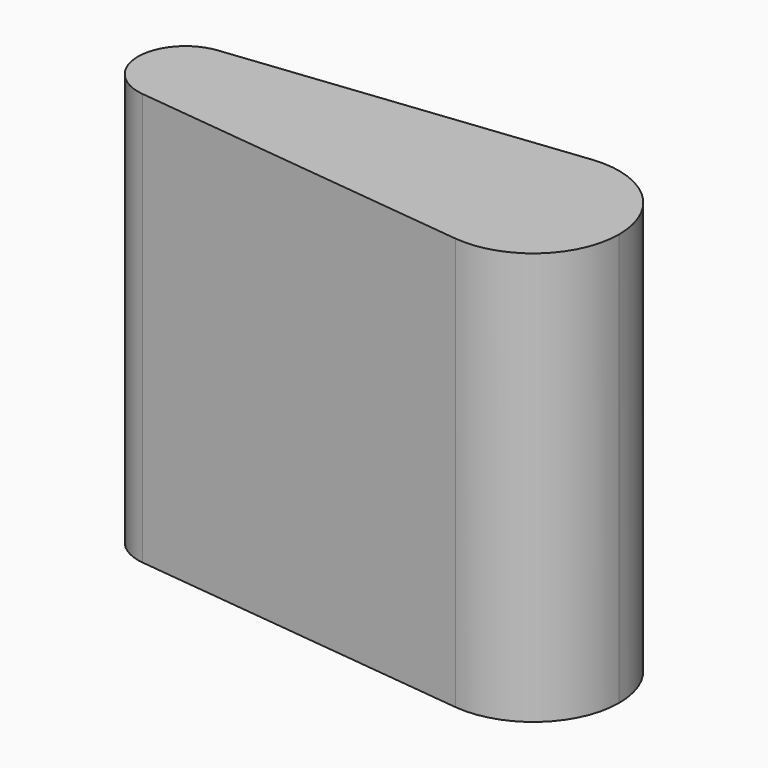
from build123d import *

# Parameters (mm, degrees)
F2_DEPTH = 87


with BuildPart() as f2:
    # F0 (on Top) → F2 (new body)
    with BuildSketch(Plane.XY):
        with BuildLine():
            ThreePointArc((-42.9789998064, 11.2830127345), (-35.2030736039, 13.768857142), (-31.8708510677, 21.2214233908))
            ThreePointArc((-31.8708510677, 21.2214233908), (-35.2030736039, 28.6739896397), (-42.9789998064, 31.1598340471))
            ThreePointArc((-42.9789998064, 31.1598340471), (-51.8708510677, 21.2214233908), (-42.9789998064, 11.2830127345))
        make_face()
        with BuildLine():
            ThreePointArc((-42.9789998064, 31.1598340471), (-35.2030736039, 28.6739896397), (-31.8708510677, 21.2214233908))
            ThreePointArc((-31.8708510677, 21.2214233908), (-35.2030736039, 13.768857142), (-42.9789998064, 11.2830127345))
            Line((-42.9789998064, 11.2830127345), (29.4798568705, 3.2037339233))
            ThreePointArc((29.4798568705, 3.2037339233), (13.3595112379, 21.2214233908), (29.4798568705, 39.2391128583))
            Line((29.4798568705, 39.2391128583), (-42.9789998064, 31.1598340471))
        make_face()
        with BuildLine():
            ThreePointArc((49.6182050888, 21.2214233908), (43.5771032496, 34.7324392918), (29.4798568705, 39.2391128583))
            ThreePointArc((29.4798568705, 39.2391128583), (13.3595112379, 21.2214233908), (29.4798568705, 3.2037339233))
            ThreePointArc((29.4798568705, 3.2037339233), (43.5771032496, 7.7104074898), (49.6182050888, 21.2214233908))
        make_face()
    extrude(amount=F2_DEPTH)


solid = f2.part
